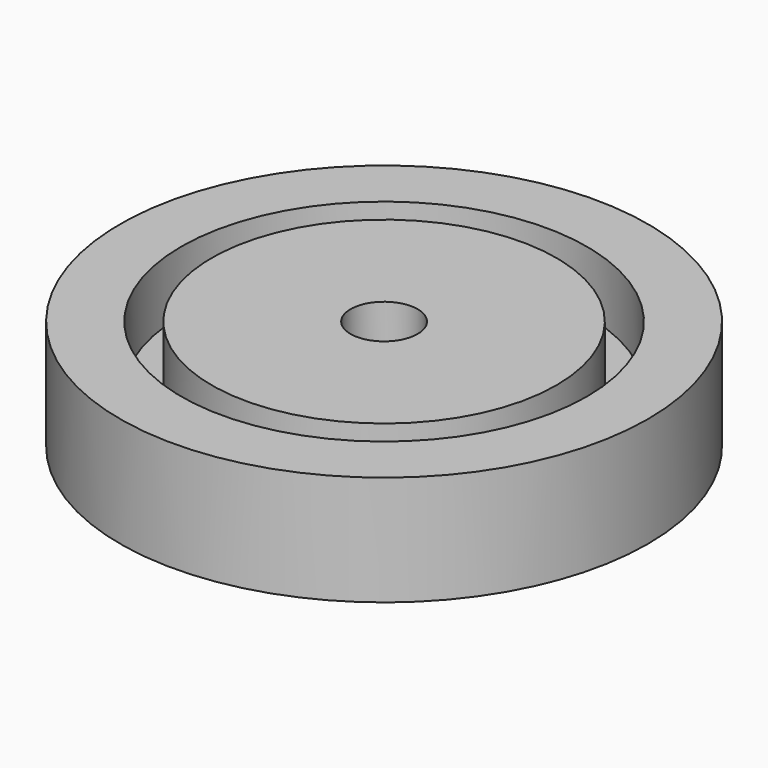
from build123d import *

# Parameters (mm, degrees)
SKETCH005_R      = 43.25
PAD002_DEPTH     = 18
SKETCH006_R      = 33.25
SKETCH006_R_2    = 28.25
POCKET003_DEPTH  = 10
HOLE_D           = 5
HOLE_CBORE_D     = 11
HOLE_CBORE_DEPTH = 10
SKETCH008_W      = 40
SKETCH008_H      = 40
SKETCH008_R      = 10
POCKET004_DEPTH  = 1


with BuildPart() as part:
    # Sketch005 → Pad002 (new body)
    with BuildSketch(Plane.XY):
        Circle(SKETCH005_R)
    extrude(amount=PAD002_DEPTH)

    # Sketch006 (on Face3 of Pad002) → Pocket003 (cut)
    with BuildSketch(Plane.XY.offset(18)):
        Circle(SKETCH006_R)
        Circle(SKETCH006_R_2, mode=Mode.SUBTRACT)
    extrude(amount=-POCKET003_DEPTH, mode=Mode.SUBTRACT)

    # Hole (through all)
    with Locations(Plane.XY.offset(18)):
        with Locations((0, 0)):
            CounterBoreHole(HOLE_D / 2, HOLE_CBORE_D / 2, HOLE_CBORE_DEPTH)

    # Sketch008 (on Face2 of Hole) → Pocket004 (cut)
    with BuildSketch(Plane(origin=(0, 0, 0), x_dir=(1, 0, 0), z_dir=(0, 0, -1))):
        Rectangle(SKETCH008_W, SKETCH008_H)
        Circle(SKETCH008_R, mode=Mode.SUBTRACT)
    extrude(amount=-POCKET004_DEPTH, mode=Mode.SUBTRACT)


solid = part.part
